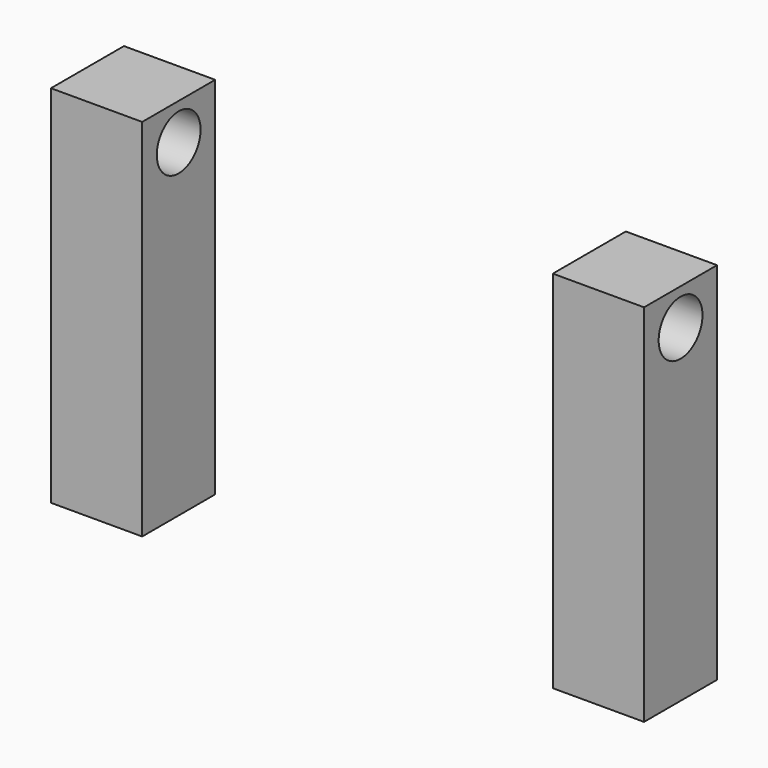
from build123d import *

# Parameters (mm, degrees)
F0_W     = 100
F0_H     = 100
F1_DEPTH = 400
F2_R     = 30
F3_DEPTH = 100
F4_R     = 30
F5_DEPTH = 100


with BuildPart() as f1:
    # F0 (on Top) → F1 (new body)
    with BuildSketch(Plane.XY):
        with Locations((-275, 0)):
            Rectangle(F0_W, F0_H)
        with Locations((275, 0)):
            Rectangle(F0_W, F0_H)
    extrude(amount=F1_DEPTH)

    # F2 (on face) → F3 (cut)
    with BuildSketch(Plane.YZ.offset(325)):
        with Locations((0, 360)):
            Circle(F2_R)
    extrude(amount=-F3_DEPTH, mode=Mode.SUBTRACT)

    # F4 (on face) → F5 (cut)
    with BuildSketch(Plane(origin=(-325, 0, 0), x_dir=(0, -1, 0), z_dir=(-1, 0, 0))):
        with Locations((0, 360)):
            Circle(F4_R)
    extrude(amount=-F5_DEPTH, mode=Mode.SUBTRACT)


solid = f1.part
